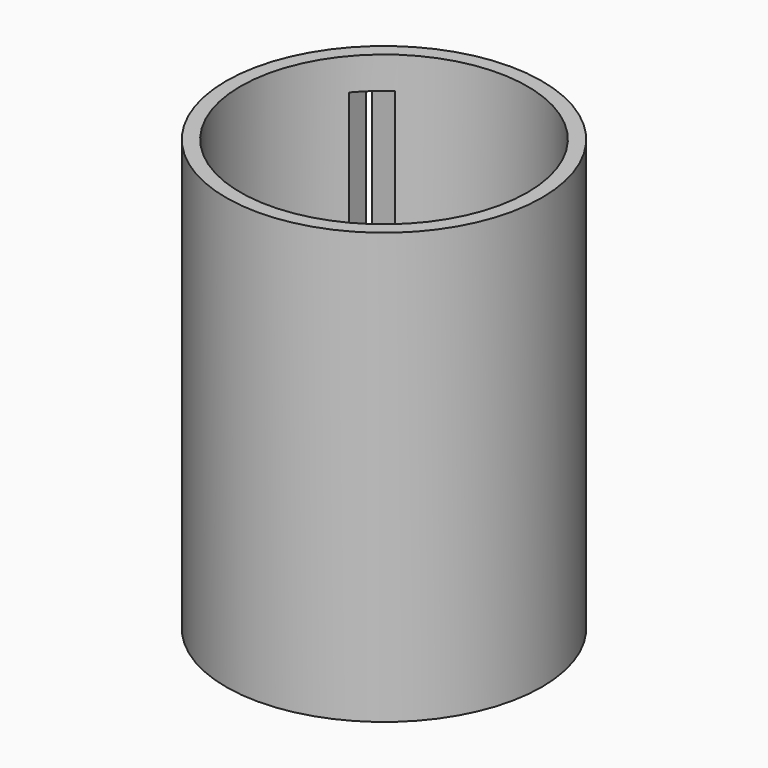
from build123d import *

# Parameters (mm, degrees)
F0_R     = 30
F1_DEPTH = 3
F0_R_2   = 33
F2_DEPTH = 90
F3_W     = 9.444052
F3_H     = 74.371448
F4_DEPTH = 24.5


with BuildPart() as f1:
    # F0 (on Top) → F1 (new body)
    with BuildSketch(Plane.XY):
        Circle(F0_R)
    extrude(amount=F1_DEPTH)

    # F0 (on Top) → F2 (join)
    with BuildSketch(Plane.XY):
        Circle(F0_R_2)
        Circle(F0_R, mode=Mode.SUBTRACT)
    extrude(amount=F2_DEPTH)

    # F3 (on Front) → F4 (cut)
    with BuildSketch(Plane.XZ):
        with Locations((-18.13293, 46.117877)):
            Rectangle(F3_W, F3_H)
    extrude(amount=-F4_DEPTH, mode=Mode.SUBTRACT)


solid = f1.part
